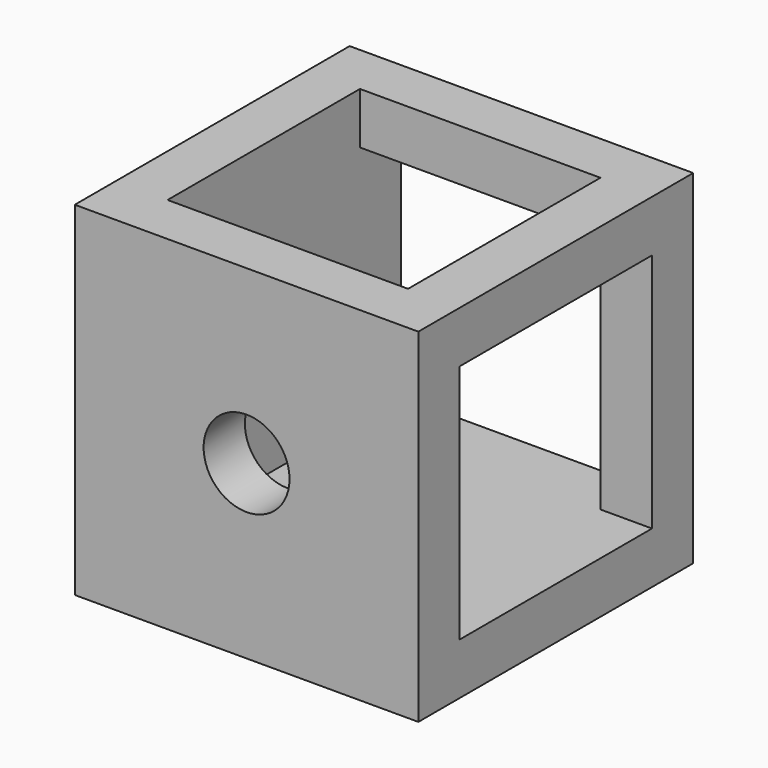
from build123d import *

# Parameters (mm, degrees)
SKETCH_W        = 20
SKETCH_H        = 20
PAD_DEPTH       = 10
SKETCH001_R     = 2.5
HOLE_DEPTH      = 25
SKETCH002_R     = 2.5
HOLE001_DEPTH   = 25
SKETCH003_R     = 2.5
HOLE002_DEPTH   = 25
SKETCH004_W     = 14
SKETCH004_H     = 14
POCKET_DEPTH    = 17
SKETCH005_W     = 14
SKETCH005_H     = 14
POCKET001_DEPTH = 17
SKETCH006_W     = 14
SKETCH006_H     = 14
POCKET002_DEPTH = 17


with BuildPart() as part:
    # Sketch → Pad (new body, symmetric)
    with BuildSketch(Plane.XZ):
        Rectangle(SKETCH_W, SKETCH_H)
    extrude(amount=PAD_DEPTH, both=True)

    # Sketch001 (on Face1 of Pad) → Hole (cut)
    with BuildSketch(Plane(origin=(0, 0, 10), x_dir=(-1, 0, 0), z_dir=(0, 0, 1))):
        Circle(SKETCH001_R)
    extrude(amount=-HOLE_DEPTH, mode=Mode.SUBTRACT)

    # Sketch002 (on Face2 of Hole) → Hole001 (cut)
    with BuildSketch(Plane(origin=(10, 0, 0), x_dir=(0, 0, 1), z_dir=(1, 0, 0))):
        Circle(SKETCH002_R)
    extrude(amount=-HOLE001_DEPTH, mode=Mode.SUBTRACT)

    # Sketch003 (on Face3 of Hole) → Hole002 (cut)
    with BuildSketch(Plane(origin=(0, 10, 0), x_dir=(1, 0, 0), z_dir=(0, 1, 0))):
        Circle(SKETCH003_R)
    extrude(amount=-HOLE002_DEPTH, mode=Mode.SUBTRACT)

    # Sketch004 (on Face2 of Hole002) → Pocket (cut)
    with BuildSketch(Plane(origin=(10, 0, 0), x_dir=(0, 0, 1), z_dir=(1, 0, 0))):
        Rectangle(SKETCH004_W, SKETCH004_H)
    extrude(amount=-POCKET_DEPTH, mode=Mode.SUBTRACT)

    # Sketch005 (on Face3 of Pocket) → Pocket001 (cut)
    with BuildSketch(Plane(origin=(0, 10, 0), x_dir=(1, 0, 0), z_dir=(0, 1, 0))):
        Rectangle(SKETCH005_W, SKETCH005_H)
    extrude(amount=-POCKET001_DEPTH, mode=Mode.SUBTRACT)

    # Sketch006 (on Face1 of Pocket001) → Pocket002 (cut)
    with BuildSketch(Plane(origin=(0, 0, 10), x_dir=(-1, 0, 0), z_dir=(0, 0, 1))):
        Rectangle(SKETCH006_W, SKETCH006_H)
    extrude(amount=-POCKET002_DEPTH, mode=Mode.SUBTRACT)


solid = part.part
